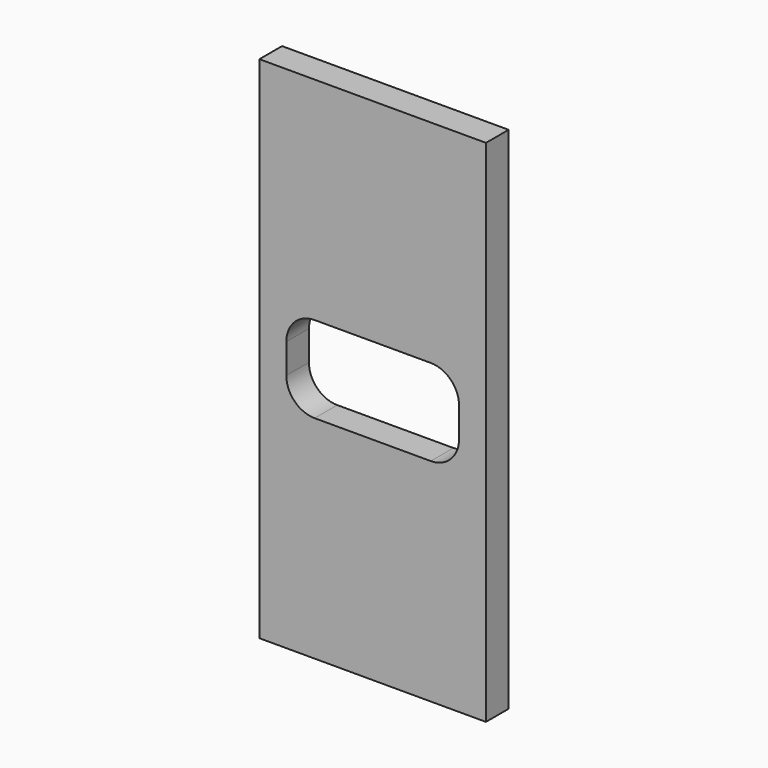
from build123d import *

# Parameters (mm, degrees)
F0_W     = 16
F0_H     = 36
F0_W_2   = 12.2
F0_H_2   = 6.1
F1_DEPTH = 2
F2_R     = 2


with BuildPart() as f1:
    # F0 (on Front) → F1 (new body)
    with BuildSketch(Plane.XZ):
        Rectangle(F0_W, F0_H)
        Rectangle(F0_W_2, F0_H_2, mode=Mode.SUBTRACT)
    extrude(amount=F1_DEPTH)

    # F2
    f2_edges = [f1.edges().sort_by_distance(p)[0] for p in [
        (-6.1, -1, -3.05),
        (-6.1, -1, 3.05),
        (6.1, -1, 3.05),
        (6.1, -1, -3.05),
    ]]
    fillet(f2_edges, radius=F2_R)


solid = f1.part
